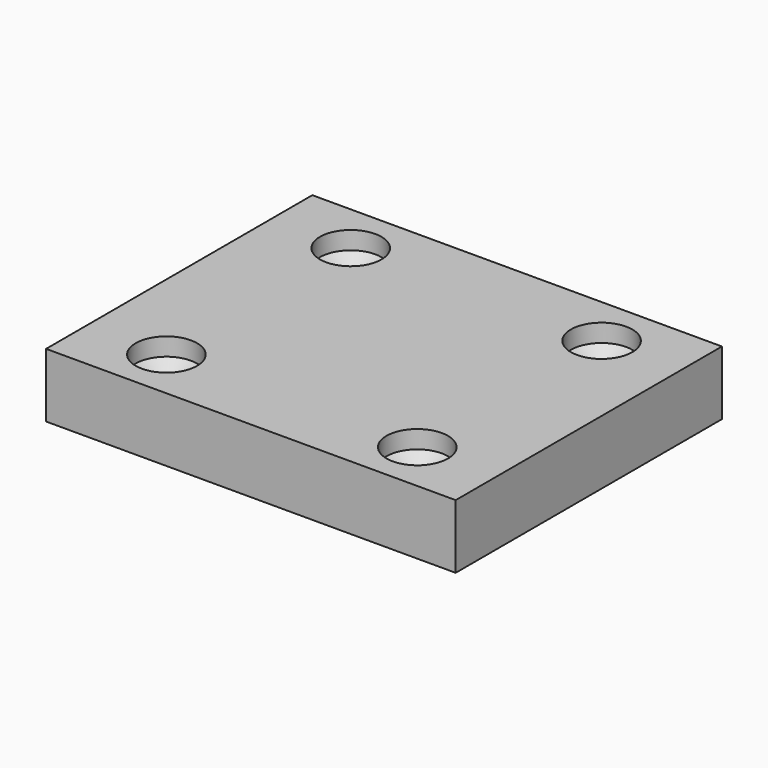
from build123d import *

# Parameters (mm, degrees)
F0_W     = 79.99999748
F0_H     = 64.99999954
F0_R     = 3.49999935
F1_DEPTH = 12.49999786
F2_D     = 11.99999886
F2_DEPTH = 3.49999808
F2_TIP   = 3.6051633717


with BuildPart() as f1:
    # F0 (on Top) → F1 (new body)
    with BuildSketch(Plane.XY):
        Rectangle(F0_W, F0_H)
        with Locations((-24.49999926, -22.49999818)):
            Circle(F0_R, mode=Mode.SUBTRACT)
        with Locations((24.49999926, -22.49999818)):
            Circle(F0_R, mode=Mode.SUBTRACT)
        with Locations((-24.49999926, 22.49999818)):
            Circle(F0_R, mode=Mode.SUBTRACT)
        with Locations((24.49999926, 22.49999818)):
            Circle(F0_R, mode=Mode.SUBTRACT)
    extrude(amount=-F1_DEPTH)

    # F2
    with Locations(Plane.XY):
        with Locations((24.49999926, -22.49999818), (-24.49999926, -22.49999818), (-24.49999926, 22.49999818), (24.49999926, 22.49999818)):
            Hole(F2_D / 2, depth=F2_DEPTH)
            with Locations((0, 0, -(F2_DEPTH + F2_TIP / 2))):  # 118° drill point
                Cone(0, F2_D / 2, F2_TIP, mode=Mode.SUBTRACT)


solid = f1.part
